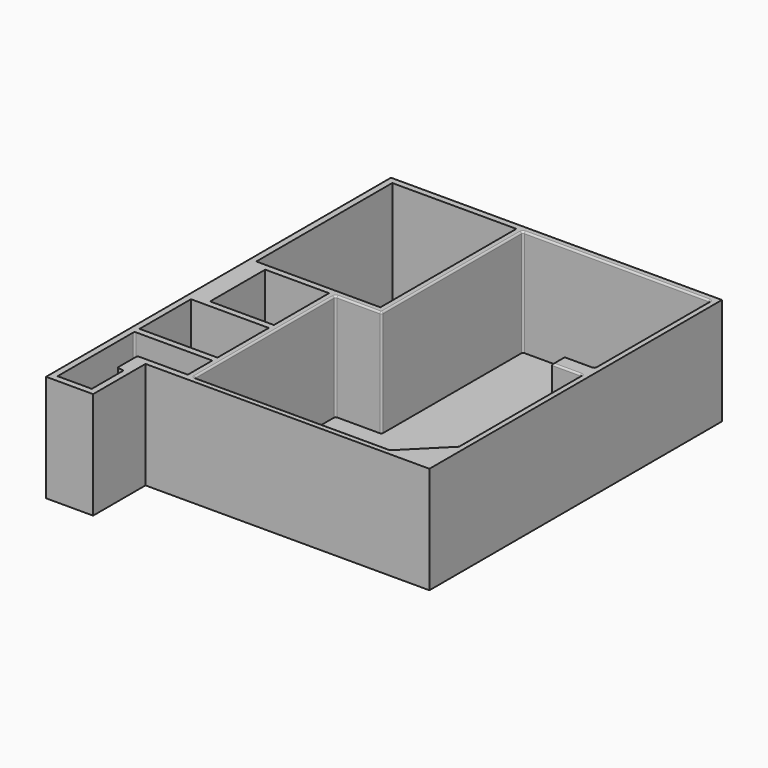
from build123d import *

# Parameters (mm, degrees)
F0_W     = 330
F0_H     = 1320
F1_DEPTH = 2510
F2_DEPTH = 2510
F0_W_2   = 705
F0_H_2   = 370
F3_DEPTH = 2510
F0_W_3   = 645
F0_H_3   = 290
F4_DEPTH = 425
F5_R     = 40
F6_W     = 1105
F6_H     = 1540
F7_DEPTH = 5
F8_R     = 40
F0_W_4   = 170
F0_H_4   = 545
F9_DEPTH = 540


with BuildPart() as f1:
    # F0 (on Top) → F1 (new body)
    with BuildSketch(Plane.XY):
        Polygon((-2210, -2560), (-2210, -5120), (-1105, -5120), (-1105, -4030), (-1255, -4030), (-1255, -4970), (-2060, -4970), (-2060, -3890), (-2060, -3600), (-2060, -2710), (-230, -2710), (-230, -2560), (-2060, -2560), (-2060, -1050), (-230, -1050), (-230, -900), (-1730, -900), (-2210, -900), align=None)
        Polygon((-1255, -4030), (-1105, -4030), (-1105, -3580), (-230, -3580), (-230, -3430), (-1415, -3430), (-1415, -3580), (-1415, -3600), (-1415, -3890), (-1415, -4030), align=None)
        Polygon((-2210, -750), (-2210, -900), (-1730, -900), (-1730, 720), (-230, 720), (-230, -900), (-230, -1050), (-230, -2560), (-230, -2710), (-230, -3430), (-230, -3580), (5570, -3580), (5570, 5015), (857, 5015), (-2210, 5015), (-2210, 870), (-2210, 570), (-1880, 570), (-1880, -750), align=None)
        Polygon((-1880, 870), (-2060, 870), (-2060, 4865), (857, 4865), (857, 870), (-230, 870), align=None, mode=Mode.SUBTRACT)
        Polygon((-80, 720), (1007, 720), (1007, 4865), (5420, 4865), (5420, 1460.954544), (5420, 1090.954544), (5420, -14.045456), (5420, -559.045456), (5420, -2539.045456), (5420, -3430), (4529.045456, -3430), (-80, -3430), align=None, mode=Mode.SUBTRACT)
        with Locations((-2045, -90)):
            Rectangle(F0_W, F0_H)
    extrude(amount=F1_DEPTH)

    # F0 (on Top) → F2 (join)
    with BuildSketch(Plane.XY):
        Polygon((5420, -2539.045456), (4529.045456, -3430), (5420, -3430), align=None)
    extrude(amount=F2_DEPTH)

    # F0 (on Top) → F3 (join)
    with BuildSketch(Plane.XY):
        with Locations((5067.5, 1275.954544)):
            Rectangle(F0_W_2, F0_H_2)
    extrude(amount=F3_DEPTH)

    # F0 (on Top) → F4 (join)
    with BuildSketch(Plane.XY):
        with Locations((-1737.5, -3745)):
            Rectangle(F0_W_3, F0_H_3)
    extrude(amount=F4_DEPTH)

    # F5
    f5_edges = [f1.edges().sort_by_distance(p)[0] for p in [
        (-1255, -4030, 1255),
        (-1415, -4030, 1255),
        (-1415, -3430, 1255),
        (-1737.5, -3890, 425),
        (-1737.5, -3600, 425),
        (5420, 1090.954544, 1255),
        (5420, 1460.954544, 1255),
        (5420, 4865, 1255),
        (1007, 4865, 1255),
        (1007, 720, 1255),
        (-80, 720, 1255),
        (-2060, -2710, 1255),
    ]]
    fillet(f5_edges, radius=F5_R)

    # F6 (on face) → F7 (join)
    with BuildSketch(Plane(origin=(0, 0, 0), x_dir=(1, 0, 0), z_dir=(0, 0, -1))):
        Polygon((-2210, 3580), (-2210, -5015), (5570, -5015), (5570, 3580), (-1105, 3580), align=None)
        with Locations((-1657.5, 4350)):
            Rectangle(F6_W, F6_H)
    extrude(amount=F7_DEPTH)

    # F8
    f8_edges = [f1.edges().sort_by_distance(p)[0] for p in [
        (-80, -1375, 2510),
        (463.5, 720, 2510),
        (1007, 2792.5, 2510),
        (3213.5, 4865, 2510),
        (5420, -744.045456, 2510),
        (4974.522728, -2984.522728, 2510),
        (2224.522728, -3430, 2510),
        (4715, 1275.954544, 2510),
        (-80, -3430, 1255),
    ]]
    fillet(f8_edges, radius=F8_R)

    # F0 (on Top) → F9 (join)
    with BuildSketch(Plane.XY):
        with Locations((5335, -286.545456)):
            Rectangle(F0_W_4, F0_H_4)
    extrude(amount=F9_DEPTH)


solid = f1.part
